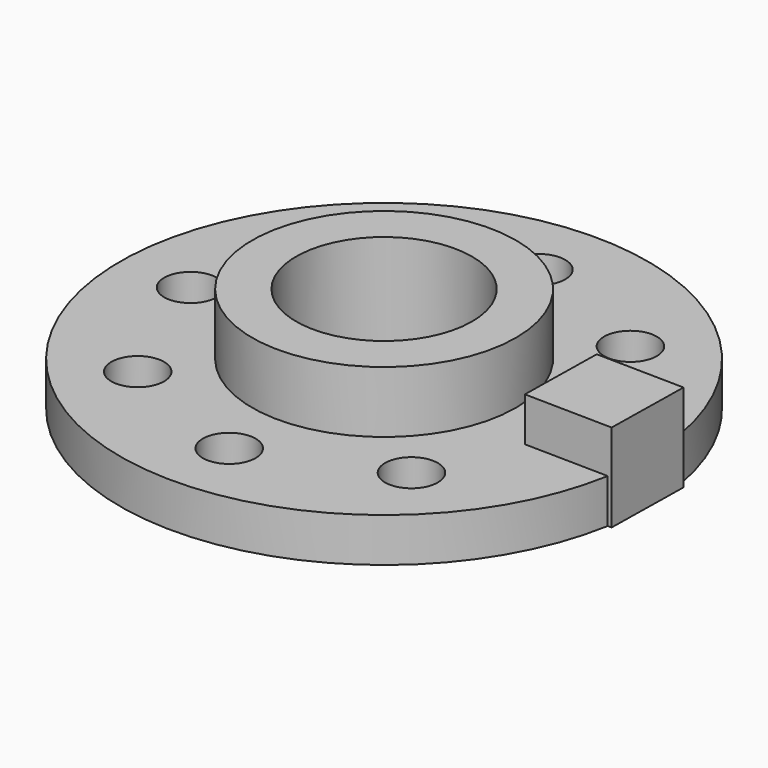
from build123d import *

# Parameters (mm, degrees)
BOX_W               = 10
BOX_H               = 10
BOX_DEPTH           = 10
BOX_PLACEMENT_ANGLE = 359
CYLINDER003_R       = 3
CYLINDER003_DEPTH   = 10
ARRAY001_COUNT      = 8
CYLINDER001_R       = 15
CYLINDER001_DEPTH   = 12
CYLINDER_R          = 30
CYLINDER_DEPTH      = 5
CYLINDER002_R       = 10
CYLINDER002_DEPTH   = 30


with BuildPart() as cube:
    # Box → Box (new body)
    with BuildSketch(Plane.XY):
        with Locations((5, 5)):
            Rectangle(BOX_W, BOX_H)
    extrude(amount=BOX_DEPTH)


with BuildPart() as cube_1:
    # Box placement: moved
    add(cube.part.moved(Location((20, -5, 0))).rotate(Axis((20, -5, 0), (0, 0, 1)), BOX_PLACEMENT_ANGLE))


with BuildPart() as array001:
    # Cylinder003 → Cylinder003 (new body)
    with BuildSketch(Plane(origin=(22, 0, -1), x_dir=(1, 0, 0), z_dir=(0, 0, 1))):
        Circle(CYLINDER003_R)
    extrude(amount=CYLINDER003_DEPTH)

    # Array001: Array001 ×8 about axis
    array001_axis = Axis((0, 0, 0), (0, 0, 1))


with BuildPart() as array001_1:
    add(array001.part)
    for i in range(1, ARRAY001_COUNT):
        add(array001.part.rotate(array001_axis, i * 360 / ARRAY001_COUNT))


with BuildPart() as cylinder001:
    # Cylinder001 → Cylinder001 (new body)
    with BuildSketch(Plane.XY):
        Circle(CYLINDER001_R)
    extrude(amount=CYLINDER001_DEPTH)


with BuildPart() as cylinder:
    # Cylinder → Cylinder (new body)
    with BuildSketch(Plane.XY):
        Circle(CYLINDER_R)
    extrude(amount=CYLINDER_DEPTH)


with BuildPart() as cut001:
    # Cut001 base: copy of Cylinder
    add(cylinder.part)

    # Cut001: cut Cylinder001
    add(cylinder001.part, mode=Mode.SUBTRACT)


with BuildPart() as cylinder002:
    # Cylinder002 → Cylinder002 (new body)
    with BuildSketch(Plane.XY):
        Circle(CYLINDER002_R)
    extrude(amount=CYLINDER002_DEPTH)


with BuildPart() as cut002:
    # Fusion base: copy of Cylinder
    add(cylinder.part)

    # Fusion: union Cylinder001
    add(cylinder001.part)

    # Cut: cut Cylinder002
    add(cylinder002.part, mode=Mode.SUBTRACT)

    # Fusion001: union Cut001
    add(cut001.part)

    # Cut002: cut Array001
    add(array001_1.part, mode=Mode.SUBTRACT)


solid = Compound([cube_1.part, cut002.part])
